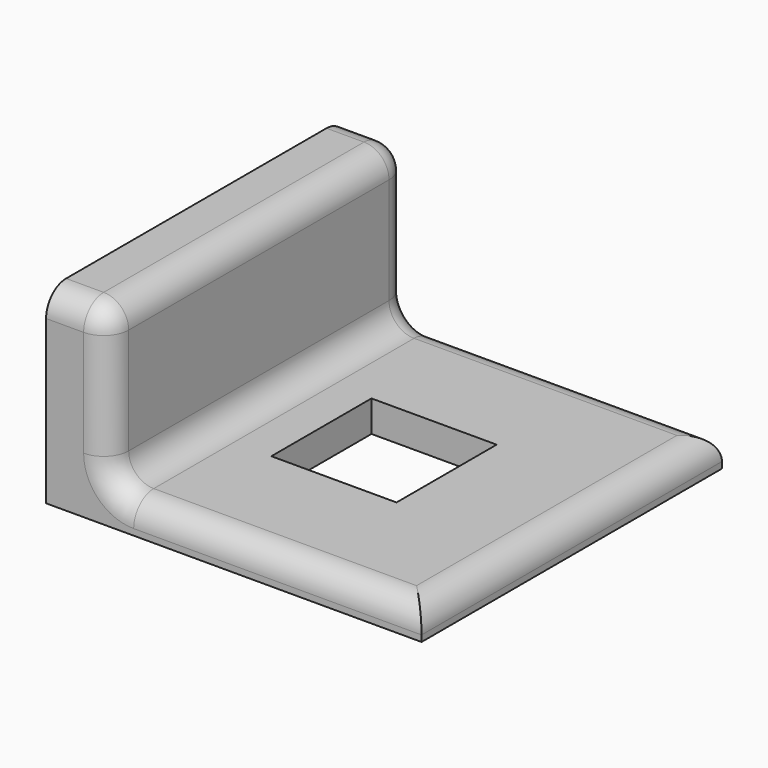
from build123d import *

# Parameters (mm, degrees)
F0_W     = 76.2
F0_H     = 76.2
F1_DEPTH = 6.35
F2_W     = 25.4
F2_H     = 25.4
F3_DEPTH = 25.4
F4_W     = 12.7
F4_H     = 76.2
F5_DEPTH = 31.75
F6_R     = 5.08
F7_R     = 5.08


with BuildPart() as f1:
    # F0 (on Top) → F1 (new body)
    with BuildSketch(Plane.XY):
        Rectangle(F0_W, F0_H)
    extrude(amount=F1_DEPTH)

    # F2 (on face) → F3 (cut)
    with BuildSketch(Plane.XY.offset(6.35)):
        Rectangle(F2_W, F2_H)
    extrude(amount=-F3_DEPTH, mode=Mode.SUBTRACT)

    # F4 (on face) → F5 (join)
    with BuildSketch(Plane.XY.offset(6.35)):
        with Locations((-31.75, 0)):
            Rectangle(F4_W, F4_H)
    extrude(amount=F5_DEPTH)

    # F6
    f6_edges = [f1.edges().sort_by_distance(p)[0] for p in [
        (-25.4, 0, 38.1),
        (-25.4, 0, 6.35),
    ]]
    fillet(f6_edges, radius=F6_R)

    # F7
    f7_edges = [f1.edges().sort_by_distance(p)[0] for p in [
        (8.89, -38.1, 6.35),
        (38.1, 0, 6.35),
        (8.89, 38.1, 6.35),
    ]]
    fillet(f7_edges, radius=F7_R)


solid = f1.part
